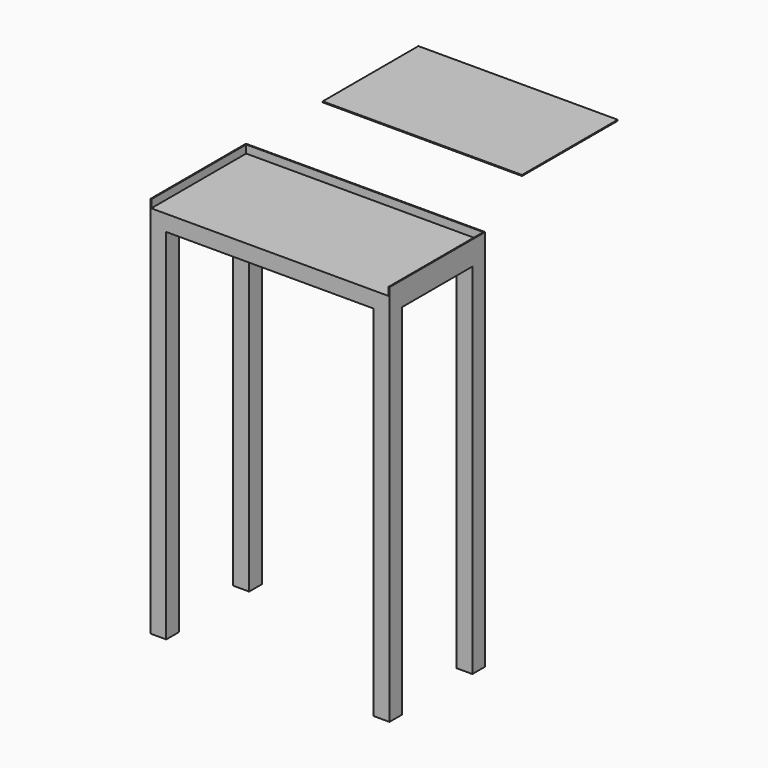
from build123d import *

# Parameters (mm, degrees)
F0_W      = 762
F0_H      = 50.8
F1_DEPTH  = 381
F2_W      = 50.8
F2_H      = 1143
F3_DEPTH  = 50.8
F4_W      = 50.8
F4_H      = 1143
F5_DEPTH  = 50.8
F6_W      = 381
F6_H      = 25.4
F7_DEPTH  = 3.175
F8_W      = 3.175
F8_H      = 25.4
F9_DEPTH  = 3.175
F10_W     = 755.65
F10_H     = 25.4
F11_DEPTH = 3.175
F12_W     = 377.825
F12_H     = 25.4
F13_DEPTH = 3.175
F14_DEPTH = 3.175
F16_W     = 3.175
F16_H     = 25.4
F17_DEPTH = 3.175
F18_W     = 635
F18_H     = 381
F19_DEPTH = 3.175


with BuildPart() as f1:
    # F0 (on Front) → F1 (new body)
    with BuildSketch(Plane.XZ):
        with Locations((86.2060026343, 26.915807277)):
            Rectangle(F0_W, F0_H)
    extrude(amount=F1_DEPTH)

    # F2 (on face) → F3 (join)
    with BuildSketch(Plane.XZ.offset(381)):
        with Locations((-269.3939973657, -569.984192723)):
            Rectangle(F2_W, F2_H)
        with Locations((441.8060026343, -569.984192723)):
            Rectangle(F2_W, F2_H)
    extrude(amount=-F3_DEPTH)

    # F4 (on face) → F5 (join)
    with BuildSketch(Plane(origin=(0, 0, 0), x_dir=(-1, 0, 0), z_dir=(0, 1, 0))):
        with Locations((-441.8060026343, -569.984192723)):
            Rectangle(F4_W, F4_H)
        with Locations((269.3939973657, -569.984192723)):
            Rectangle(F4_W, F4_H)
    extrude(amount=-F5_DEPTH)

    # F6 (on face) → F7 (join)
    with BuildSketch(Plane.YZ.offset(467.2060026343)):
        with Locations((-190.5, 65.015807277)):
            Rectangle(F6_W, F6_H)
    extrude(amount=-F7_DEPTH)

    # F8 (on face) → F9 (join)
    with BuildSketch(Plane(origin=(0, 0, 0), x_dir=(-1, 0, 0), z_dir=(0, 1, 0))):
        with Locations((-465.6185026343, 65.015807277)):
            Rectangle(F8_W, F8_H)
    extrude(amount=-F9_DEPTH)

    # F10 (on face) → F11 (join)
    with BuildSketch(Plane(origin=(0, 0, 0), x_dir=(-1, 0, 0), z_dir=(0, 1, 0))):
        with Locations((-86.2060026343, 65.015807277)):
            Rectangle(F10_W, F10_H)
    extrude(amount=-F11_DEPTH)

    # F12 (on face) → F13 (join)
    with BuildSketch(Plane(origin=(-294.7939973657, 0, 0), x_dir=(0, -1, 0), z_dir=(-1, 0, 0))):
        with Locations((192.0875, 65.015807277)):
            Rectangle(F12_W, F12_H)
    extrude(amount=-F13_DEPTH)

    # F14 (add): a face of the model
    f14_faces = [f1.faces().sort_by_distance(p)[0] for p in [
        (464.0310026343, -192.0875, 65.015807277),
    ]]
    extrude(f14_faces, amount=-F14_DEPTH)

    # F16 (on face) → F17 (join)
    with BuildSketch(Plane(origin=(-294.7939973657, 0, 0), x_dir=(0, -1, 0), z_dir=(-1, 0, 0))):
        with Locations((1.5875, 65.015807277)):
            Rectangle(F16_W, F16_H)
    extrude(amount=-F17_DEPTH)


with BuildPart() as f19:
    # F18 (on Top) → F19 (new body)
    with BuildSketch(Plane.XY):
        with Locations((-64.0264371872, 604.693302393)):
            Rectangle(F18_W, F18_H)
    extrude(amount=-F19_DEPTH)


solid = Compound([f1.part, f19.part])
